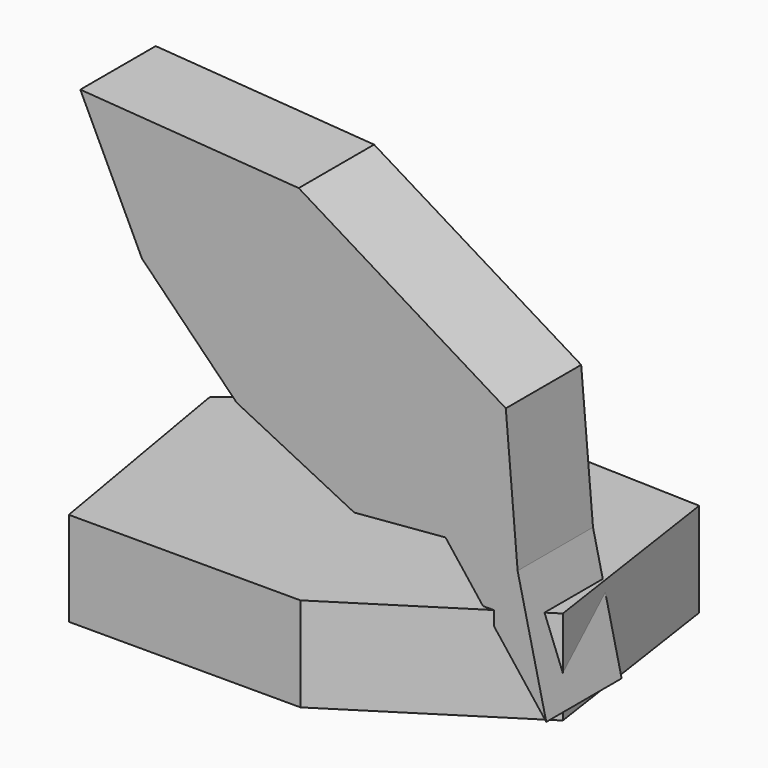
from build123d import *

# Parameters (mm, degrees)
F0_W     = 1.1385447797
F0_H     = 10.6680987737
F1_DEPTH = 25
F3_DEPTH = 25


with BuildPart() as f1:
    # F0 (on Top) → F1 (new body)
    with BuildSketch(Plane.XY):
        Polygon((0, -46.6304384172), (46.141307801, -17.2826088965), (-5.3850366841, -15.2486749252), align=None)
        Polygon((-32.335957761, 9.7168054916), (-37.6630462706, 40.7608710229), (-71.6585168016, 12.759203091), align=None)
        Polygon((46.141307801, -17.2826088965), (37.9891358316, 38.1521731615), (-9.3640666491, 7.9394637296), (-5.3850366841, -15.2486749252), align=None)
        Polygon((-5.3850366841, -15.2486749252), (-28.2065235078, -14.347827062), (-61.4673942327, -46.6304384172), (0, -46.6304384172), align=None)
        Polygon((-28.2065235078, -14.347827062), (-32.335957761, 9.7168054916), (-71.6585168016, 12.759203091), (-61.4673942327, -46.6304384172), align=None)
        Polygon((37.9891358316, 38.1521731615), (-37.6630462706, 40.7608710229), (-32.335957761, 9.7168054916), (-9.3640666491, 7.9394637296), align=None)
        Polygon((-29.9031199126, 24.5017413181), (-29.9031199126, 20.217390731), (-31.0679894271, 20.217390731), (-31.0679894271, 30.2405335024), (-25.4805644678, 30.2405335024), (-25.4805644678, 29.2050939339), (-29.9031199126, 29.2050939339), (-29.9031199126, 25.5371808865), (-25.7481992715, 25.5371808865), (-25.7481992715, 24.5017413181), align=None, mode=Mode.SUBTRACT)
        with BuildLine():
            Line((-18.5286407553, 20.217390731), (-19.3732259965, 20.217390731))
            Line((-19.3732259965, 20.217390731), (-19.5991799701, 21.2879299458))
            Line((-19.5991799701, 21.2879299458), (-19.6540231676, 21.2879299458))
            add(Edge.make_bspline(
                [(-19.6540231676, 21.2879299458), (-20.2156175098, 20.5815495622), (-20.7739212601, 20.3303677178)],
                knots=[0, 0, 0, 1, 1, 1], degree=2))
            add(Edge.make_bspline(
                [(-20.7739212601, 20.3303677178), (-21.3322250105, 20.0791858733), (-22.1702290679, 20.0791858733)],
                knots=[0, 0, 0, 1, 1, 1], degree=2))
            add(Edge.make_bspline(
                [(-22.1702290679, 20.0791858733), (-23.2868365686, 20.0791858733), (-23.9208239315, 20.6561363108)],
                knots=[0, 0, 0, 1, 1, 1], degree=2))
            add(Edge.make_bspline(
                [(-23.9208239315, 20.6561363108), (-24.5548112944, 21.2330867483), (-24.5548112944, 22.2948510515)],
                knots=[0, 0, 0, 1, 1, 1], degree=2))
            add(Edge.make_bspline(
                [(-24.5548112944, 22.2948510515), (-24.5548112944, 24.569746883), (-20.9154167096, 24.6794332779)],
                knots=[0, 0, 0, 1, 1, 1], degree=2))
            Line((-20.9154167096, 24.6794332779), (-19.6408608002, 24.721114108))
            Line((-19.6408608002, 24.721114108), (-19.6408608002, 25.1883781505))
            add(Edge.make_bspline(
                [(-19.6408608002, 25.1883781505), (-19.6408608002, 26.0724504939), (-20.0203757267, 26.4936462506)],
                knots=[0, 0, 0, 1, 1, 1], degree=2))
            add(Edge.make_bspline(
                [(-20.0203757267, 26.4936462506), (-20.3998906533, 26.9148420072), (-21.2378947108, 26.9148420072)],
                knots=[0, 0, 0, 1, 1, 1], degree=2))
            add(Edge.make_bspline(
                [(-21.2378947108, 26.9148420072), (-22.1768102516, 26.9148420072), (-23.3614233172, 26.3400852976)],
                knots=[0, 0, 0, 1, 1, 1], degree=2))
            Line((-23.3614233172, 26.3400852976), (-23.7124197811, 27.2109952736))
            add(Edge.make_bspline(
                [(-23.7124197811, 27.2109952736), (-23.1574066226, 27.5115359958), (-22.495997661, 27.6826467719)],
                knots=[0, 0, 0, 1, 1, 1], degree=2))
            add(Edge.make_bspline(
                [(-22.495997661, 27.6826467719), (-21.8345886994, 27.853757548), (-21.167695418, 27.853757548)],
                knots=[0, 0, 0, 1, 1, 1], degree=2))
            add(Edge.make_bspline(
                [(-21.167695418, 27.853757548), (-19.8251339437, 27.853757548), (-19.1768873495, 27.2581604234)],
                knots=[0, 0, 0, 1, 1, 1], degree=2))
            add(Edge.make_bspline(
                [(-19.1768873495, 27.2581604234), (-18.5286407553, 26.6625632988), (-18.5286407553, 25.3463265593)],
                knots=[0, 0, 0, 1, 1, 1], degree=2))
            Line((-18.5286407553, 25.3463265593), (-18.5286407553, 20.217390731))
        make_face(mode=Mode.SUBTRACT)
        with BuildLine():
            add(Edge.make_bspline(
                [(-15.0471945793, 26.7305688637), (-14.2530650798, 27.853757548), (-12.6889370877, 27.853757548)],
                knots=[0, 0, 0, 1, 1, 1], degree=2))
            add(Edge.make_bspline(
                [(-12.6889370877, 27.853757548), (-11.2081707557, 27.853757548), (-10.3888133854, 26.8424489865)],
                knots=[0, 0, 0, 1, 1, 1], degree=2))
            add(Edge.make_bspline(
                [(-10.3888133854, 26.8424489865), (-9.569456015, 25.831140425), (-9.569456015, 23.981827806)],
                knots=[0, 0, 0, 1, 1, 1], degree=2))
            add(Edge.make_bspline(
                [(-9.569456015, 23.981827806), (-9.569456015, 22.1303214591), (-10.3953945691, 21.1047536662)],
                knots=[0, 0, 0, 1, 1, 1], degree=2))
            add(Edge.make_bspline(
                [(-10.3953945691, 21.1047536662), (-11.2213331231, 20.0791858733), (-12.6889370877, 20.0791858733)],
                knots=[0, 0, 0, 1, 1, 1], degree=2))
            add(Edge.make_bspline(
                [(-12.6889370877, 20.0791858733), (-13.4238359339, 20.0791858733), (-14.030401698, 20.3501112689)],
                knots=[0, 0, 0, 1, 1, 1], degree=2))
            add(Edge.make_bspline(
                [(-14.030401698, 20.3501112689), (-14.6369674621, 20.6210366644), (-15.0471945793, 21.1848247345)],
                knots=[0, 0, 0, 1, 1, 1], degree=2))
            Line((-15.0471945793, 21.1848247345), (-15.1305562395, 21.1848247345))
            Line((-15.1305562395, 21.1848247345), (-15.3696725805, 20.217390731))
            Line((-15.3696725805, 20.217390731), (-16.185739359, 20.217390731))
            Line((-16.185739359, 20.217390731), (-16.185739359, 30.8854895047))
            Line((-16.185739359, 30.8854895047), (-15.0471945793, 30.8854895047))
            Line((-15.0471945793, 30.8854895047), (-15.0471945793, 28.2925031279))
            add(Edge.make_bspline(
                [(-15.0471945793, 28.2925031279), (-15.0471945793, 27.4215931519), (-15.1020377768, 26.7305688637)],
                knots=[0, 0, 0, 1, 1, 1], degree=2))
            Line((-15.1020377768, 26.7305688637), (-15.0471945793, 26.7305688637))
        make_face(mode=Mode.SUBTRACT)
        with BuildLine():
            Line((1.4342831273, 20.217390731), (0.5896978861, 20.217390731))
            Line((0.5896978861, 20.217390731), (0.3637439125, 21.2879299458))
            Line((0.3637439125, 21.2879299458), (0.308900715, 21.2879299458))
            add(Edge.make_bspline(
                [(0.308900715, 21.2879299458), (-0.2526936272, 20.5815495622), (-0.8109973775, 20.3303677178)],
                knots=[0, 0, 0, 1, 1, 1], degree=2))
            add(Edge.make_bspline(
                [(-0.8109973775, 20.3303677178), (-1.3693011279, 20.0791858733), (-2.2073051853, 20.0791858733)],
                knots=[0, 0, 0, 1, 1, 1], degree=2))
            add(Edge.make_bspline(
                [(-2.2073051853, 20.0791858733), (-3.323912686, 20.0791858733), (-3.9579000489, 20.6561363108)],
                knots=[0, 0, 0, 1, 1, 1], degree=2))
            add(Edge.make_bspline(
                [(-3.9579000489, 20.6561363108), (-4.5918874118, 21.2330867483), (-4.5918874118, 22.2948510515)],
                knots=[0, 0, 0, 1, 1, 1], degree=2))
            add(Edge.make_bspline(
                [(-4.5918874118, 22.2948510515), (-4.5918874118, 24.569746883), (-0.952492827, 24.6794332779)],
                knots=[0, 0, 0, 1, 1, 1], degree=2))
            Line((-0.952492827, 24.6794332779), (0.3220630824, 24.721114108))
            Line((0.3220630824, 24.721114108), (0.3220630824, 25.1883781505))
            add(Edge.make_bspline(
                [(0.3220630824, 25.1883781505), (0.3220630824, 26.0724504939), (-0.0574518441, 26.4936462506)],
                knots=[0, 0, 0, 1, 1, 1], degree=2))
            add(Edge.make_bspline(
                [(-0.0574518441, 26.4936462506), (-0.4369667707, 26.9148420072), (-1.2749708282, 26.9148420072)],
                knots=[0, 0, 0, 1, 1, 1], degree=2))
            add(Edge.make_bspline(
                [(-1.2749708282, 26.9148420072), (-2.213886369, 26.9148420072), (-3.3984994346, 26.3400852976)],
                knots=[0, 0, 0, 1, 1, 1], degree=2))
            Line((-3.3984994346, 26.3400852976), (-3.7494958985, 27.2109952736))
            add(Edge.make_bspline(
                [(-3.7494958985, 27.2109952736), (-3.19448274, 27.5115359958), (-2.5330737784, 27.6826467719)],
                knots=[0, 0, 0, 1, 1, 1], degree=2))
            add(Edge.make_bspline(
                [(-2.5330737784, 27.6826467719), (-1.8716648168, 27.853757548), (-1.2047715354, 27.853757548)],
                knots=[0, 0, 0, 1, 1, 1], degree=2))
            add(Edge.make_bspline(
                [(-1.2047715354, 27.853757548), (0.1377899389, 27.853757548), (0.7860365331, 27.2581604234)],
                knots=[0, 0, 0, 1, 1, 1], degree=2))
            add(Edge.make_bspline(
                [(0.7860365331, 27.2581604234), (1.4342831273, 26.6625632988), (1.4342831273, 25.3463265593)],
                knots=[0, 0, 0, 1, 1, 1], degree=2))
            Line((1.4342831273, 25.3463265593), (1.4342831273, 20.217390731))
        make_face(mode=Mode.SUBTRACT)
        with Locations((-7.0126661485, 25.5514401179)):
            Rectangle(F0_W, F0_H, mode=Mode.SUBTRACT)
        with BuildLine():
            add(Edge.make_bspline(
                [(4.9157293033, 26.7305688637), (5.7098588028, 27.853757548), (7.2739867949, 27.853757548)],
                knots=[0, 0, 0, 1, 1, 1], degree=2))
            add(Edge.make_bspline(
                [(7.2739867949, 27.853757548), (8.7547531269, 27.853757548), (9.5741104972, 26.8424489865)],
                knots=[0, 0, 0, 1, 1, 1], degree=2))
            add(Edge.make_bspline(
                [(9.5741104972, 26.8424489865), (10.3934678676, 25.831140425), (10.3934678676, 23.981827806)],
                knots=[0, 0, 0, 1, 1, 1], degree=2))
            add(Edge.make_bspline(
                [(10.3934678676, 23.981827806), (10.3934678676, 22.1303214591), (9.5675293135, 21.1047536662)],
                knots=[0, 0, 0, 1, 1, 1], degree=2))
            add(Edge.make_bspline(
                [(9.5675293135, 21.1047536662), (8.7415907595, 20.0791858733), (7.2739867949, 20.0791858733)],
                knots=[0, 0, 0, 1, 1, 1], degree=2))
            add(Edge.make_bspline(
                [(7.2739867949, 20.0791858733), (6.5390879487, 20.0791858733), (5.9325221846, 20.3501112689)],
                knots=[0, 0, 0, 1, 1, 1], degree=2))
            add(Edge.make_bspline(
                [(5.9325221846, 20.3501112689), (5.3259564205, 20.6210366644), (4.9157293033, 21.1848247345)],
                knots=[0, 0, 0, 1, 1, 1], degree=2))
            Line((4.9157293033, 21.1848247345), (4.8323676432, 21.1848247345))
            Line((4.8323676432, 21.1848247345), (4.5932513021, 20.217390731))
            Line((4.5932513021, 20.217390731), (3.7771845236, 20.217390731))
            Line((3.7771845236, 20.217390731), (3.7771845236, 30.8854895047))
            Line((3.7771845236, 30.8854895047), (4.9157293033, 30.8854895047))
            Line((4.9157293033, 30.8854895047), (4.9157293033, 28.2925031279))
            add(Edge.make_bspline(
                [(4.9157293033, 28.2925031279), (4.9157293033, 27.4215931519), (4.8608861058, 26.7305688637)],
                knots=[0, 0, 0, 1, 1, 1], degree=2))
            Line((4.8608861058, 26.7305688637), (4.9157293033, 26.7305688637))
        make_face(mode=Mode.SUBTRACT)
        Polygon((-9.3640666491, 7.9394637296), (-32.335957761, 9.7168054916), (-28.2065235078, -14.347827062), (-5.3850366841, -15.2486749252), align=None)
    extrude(amount=F1_DEPTH)

    # F2 (on Front) → F3 (join)
    with BuildSketch(Plane.XZ):
        Polygon((-17.7594870329, 106.7427992821), (-75.7184699178, 110.903725028), (-59.3579299748, 76.7451450229), (-34.2380218208, 51.2733086944), (-3.0318840951, 35.7375395996), (21.1975596517, 37.7931054263), (47.9272156954, 3.3937320113), (40.3265580535, 36.2278595567), (37.193346135, 73.1597743332), align=None)
    extrude(amount=F3_DEPTH)


solid = f1.part
